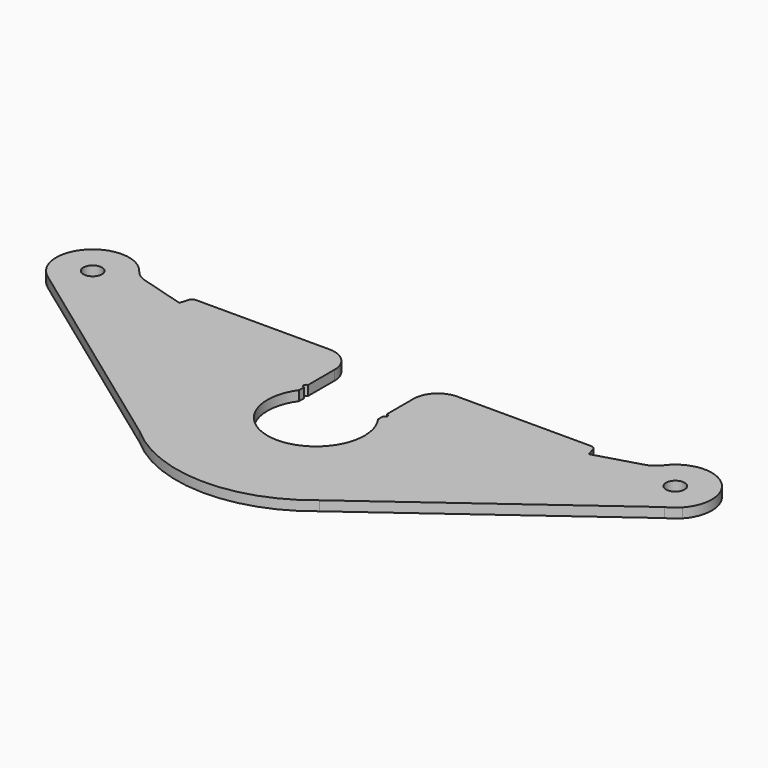
from build123d import *

# Parameters (mm, degrees)
F0_R     = 2.4257
F1_DEPTH = 2.54


with BuildPart() as f1:
    # F0 (on Top) → F1 (new body)
    with BuildSketch(Plane.XY):
        with BuildLine():
            ThreePointArc((10.31875, 7.403607), (0, -12.7), (-10.31875, 7.403607))
            Line((-10.31875, 7.403607), (-10.31875, 8.995426))
            ThreePointArc((-10.31875, 8.995426), (-10.947542, 9.624218), (-10.31875, 10.25301))
            Line((-10.31875, 10.25301), (-10.31875, 18.983854))
            ThreePointArc((-10.31875, 18.983854), (-12.178622, 23.473982), (-16.66875, 25.333854))
            Line((-16.66875, 25.333854), (-51.678968, 25.333854))
            ThreePointArc((-51.678968, 25.333854), (-52.440968, 25.079854), (-52.898168, 24.419454))
            Line((-52.898168, 24.419454), (-53.536901, 22.229512))
            Line((-53.536901, 22.229512), (-65.277999, 25.653999))
            ThreePointArc((-65.277999, 25.653999), (-67.114483, 26.529079), (-68.58, 27.94))
            ThreePointArc((-68.58, 27.94), (-83.100222, 28.791015), (-81.529968, 14.330884))
            Line((-81.529968, 14.330884), (-24.332909, -27.222641))
            ThreePointArc((-24.332909, -27.222641), (-0.623226, -36.507181), (23.389548, -28.037327))
            Line((23.389548, -28.037327), (80.234168, 13.596494))
            Line((80.234168, 13.596494), (83.209212, 15.775459))
            ThreePointArc((83.209212, 15.775459), (82.289932, 29.548821), (68.58, 27.94))
            ThreePointArc((68.58, 27.94), (67.114483, 26.529079), (65.277999, 25.653999))
            Line((65.277999, 25.653999), (53.540294, 22.230502))
            Line((53.540294, 22.230502), (52.90185, 24.419454))
            ThreePointArc((52.90185, 24.419454), (52.44465, 25.079854), (51.68265, 25.333854))
            Line((51.68265, 25.333854), (16.66875, 25.333854))
            ThreePointArc((16.66875, 25.333854), (12.178622, 23.473982), (10.31875, 18.983854))
            Line((10.31875, 18.983854), (10.31875, 10.259218))
            ThreePointArc((10.31875, 10.259218), (10.95375, 9.624218), (10.31875, 8.989218))
            Line((10.31875, 8.989218), (10.31875, 7.403607))
        make_face()
        with Locations((-76.2, 22.225)):
            Circle(F0_R, mode=Mode.SUBTRACT)
        with Locations((76.2, 22.225)):
            Circle(F0_R, mode=Mode.SUBTRACT)
        with BuildLine():
            ThreePointArc((80.234168, 13.596494), (81.828146, 14.540627), (83.209212, 15.775459))
            Line((83.209212, 15.775459), (80.234168, 13.596494))
        make_face()
    extrude(amount=F1_DEPTH)


solid = f1.part
